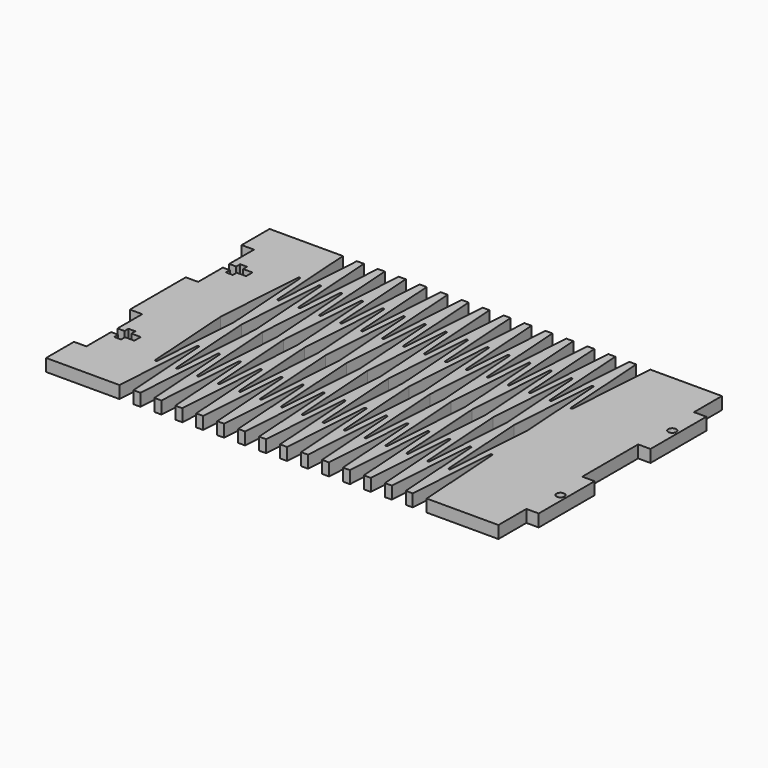
from build123d import *

# Parameters (mm, degrees)
F0_R     = 1.4478
F1_DEPTH = 4.4958
F3_DEPTH = 4.4968


with BuildPart() as f1:
    # F0 (on Top) → F1 (new body)
    with BuildSketch(Plane.XY):
        Polygon((80.01, 50.8), (-80.01, 50.8), (-84.5058, 50.8), (-84.5058, 38.1), (-80.01, 38.1), (-80.01, 26.8478), (-77.47, 26.8478), (-77.47, 28.6385), (-74.96175, 28.6385), (-74.96175, 26.8478), (-71.5518, 26.8478), (-71.5518, 23.9522), (-74.96175, 23.9522), (-74.96175, 22.1615), (-77.47, 22.1615), (-77.47, 23.9522), (-80.01, 23.9522), (-80.01, 12.7), (-84.5058, 12.7), (-84.5058, 0), (-84.5058, -12.7), (-80.01, -12.7), (-80.01, -23.9522), (-77.47, -23.9522), (-77.47, -22.1615), (-74.96175, -22.1615), (-74.96175, -23.9522), (-71.5518, -23.9522), (-71.5518, -26.8478), (-74.96175, -26.8478), (-74.96175, -28.6385), (-77.47, -28.6385), (-77.47, -26.8478), (-80.01, -26.8478), (-80.01, -38.1), (-84.5058, -38.1), (-84.5058, -50.8), (-80.01, -50.8), (80.01, -50.8), (80.01, -38.1), (84.5058, -38.1), (84.5058, -12.7), (80.01, -12.7), (80.01, 0), (80.01, 12.7), (84.5058, 12.7), (84.5058, 38.1), (80.01, 38.1), align=None)
        with Locations((82.2579, -25.4)):
            Circle(F0_R, mode=Mode.SUBTRACT)
        with Locations((82.2579, 25.4)):
            Circle(F0_R, mode=Mode.SUBTRACT)
    extrude(amount=F1_DEPTH)

    # F2 (on face) → F3 (cut, through all)
    with BuildSketch(Plane.XY.offset(4.4958)):
        with BuildLine():
            ThreePointArc((-58.725644, 32.397658), (-59.1058, 32.753314), (-59.485956, 32.397658))
            Line((-59.485956, 32.397658), (-61.6458, 0))
            Line((-61.6458, 0), (-59.485956, -32.397658))
            ThreePointArc((-59.485956, -32.397658), (-59.1058, -32.753314), (-58.725644, -32.397658))
            Line((-58.725644, -32.397658), (-56.5658, 0))
            Line((-56.5658, 0), (-58.725644, 32.397658))
        make_face()
        with BuildLine():
            Line((-52.7558, 50.8), (-57.8358, 50.8))
            Line((-57.8358, 50.8), (-55.675956, 18.402342))
            ThreePointArc((-55.675956, 18.402342), (-55.2958, 18.046686), (-54.915644, 18.402342))
            Line((-54.915644, 18.402342), (-52.7558, 50.8))
        make_face()
        with BuildLine():
            ThreePointArc((-54.915644, -18.402342), (-55.2958, -18.046686), (-55.675956, -18.402342))
            Line((-55.675956, -18.402342), (-57.8358, -50.8))
            Line((-57.8358, -50.8), (-52.7558, -50.8))
            Line((-52.7558, -50.8), (-54.915644, -18.402342))
        make_face()
        with BuildLine():
            Line((-54.0258, 0), (-51.865956, -32.397658))
            ThreePointArc((-51.865956, -32.397658), (-51.4858, -32.753314), (-51.105644, -32.397658))
            Line((-51.105644, -32.397658), (-48.9458, 0))
            Line((-48.9458, 0), (-51.105644, 32.397658))
            ThreePointArc((-51.105644, 32.397658), (-51.4858, 32.753314), (-51.865956, 32.397658))
            Line((-51.865956, 32.397658), (-54.0258, 0))
        make_face()
        with BuildLine():
            Line((-45.1358, 50.8), (-50.2158, 50.8))
            Line((-50.2158, 50.8), (-48.055956, 18.402342))
            ThreePointArc((-48.055956, 18.402342), (-47.6758, 18.046686), (-47.295644, 18.402342))
            Line((-47.295644, 18.402342), (-45.1358, 50.8))
        make_face()
        with BuildLine():
            Line((-45.1358, -50.8), (-47.295644, -18.402342))
            ThreePointArc((-47.295644, -18.402342), (-47.6758, -18.046686), (-48.055956, -18.402342))
            Line((-48.055956, -18.402342), (-50.2158, -50.8))
            Line((-50.2158, -50.8), (-45.1358, -50.8))
        make_face()
        with BuildLine():
            Line((-46.4058, 0), (-44.245956, -32.397658))
            ThreePointArc((-44.245956, -32.397658), (-43.8658, -32.753314), (-43.485644, -32.397658))
            Line((-43.485644, -32.397658), (-41.3258, 0))
            Line((-41.3258, 0), (-43.485644, 32.397658))
            ThreePointArc((-43.485644, 32.397658), (-43.8658, 32.753314), (-44.245956, 32.397658))
            Line((-44.245956, 32.397658), (-46.4058, 0))
        make_face()
        with BuildLine():
            Line((-37.5158, 50.8), (-42.5958, 50.8))
            Line((-42.5958, 50.8), (-40.435956, 18.402342))
            ThreePointArc((-40.435956, 18.402342), (-40.0558, 18.046686), (-39.675644, 18.402342))
            Line((-39.675644, 18.402342), (-37.5158, 50.8))
        make_face()
        with BuildLine():
            Line((-37.5158, -50.8), (-39.675644, -18.402342))
            ThreePointArc((-39.675644, -18.402342), (-40.0558, -18.046686), (-40.435956, -18.402342))
            Line((-40.435956, -18.402342), (-42.5958, -50.8))
            Line((-42.5958, -50.8), (-37.5158, -50.8))
        make_face()
        with BuildLine():
            Line((-38.7858, 0), (-36.625956, -32.397658))
            ThreePointArc((-36.625956, -32.397658), (-36.2458, -32.753314), (-35.865644, -32.397658))
            Line((-35.865644, -32.397658), (-33.7058, 0))
            Line((-33.7058, 0), (-35.865644, 32.397658))
            ThreePointArc((-35.865644, 32.397658), (-36.2458, 32.753314), (-36.625956, 32.397658))
            Line((-36.625956, 32.397658), (-38.7858, 0))
        make_face()
        with BuildLine():
            Line((-29.8958, 50.8), (-34.9758, 50.8))
            Line((-34.9758, 50.8), (-32.815956, 18.402342))
            ThreePointArc((-32.815956, 18.402342), (-32.4358, 18.046686), (-32.055644, 18.402342))
            Line((-32.055644, 18.402342), (-29.8958, 50.8))
        make_face()
        with BuildLine():
            Line((-29.8958, -50.8), (-32.055644, -18.402342))
            ThreePointArc((-32.055644, -18.402342), (-32.4358, -18.046686), (-32.815956, -18.402342))
            Line((-32.815956, -18.402342), (-34.9758, -50.8))
            Line((-34.9758, -50.8), (-29.8958, -50.8))
        make_face()
        with BuildLine():
            Line((-31.1658, 0), (-29.005956, -32.397658))
            ThreePointArc((-29.005956, -32.397658), (-28.6258, -32.753314), (-28.245644, -32.397658))
            Line((-28.245644, -32.397658), (-26.0858, 0))
            Line((-26.0858, 0), (-28.245644, 32.397658))
            ThreePointArc((-28.245644, 32.397658), (-28.6258, 32.753314), (-29.005956, 32.397658))
            Line((-29.005956, 32.397658), (-31.1658, 0))
        make_face()
        with BuildLine():
            Line((-22.2758, 50.8), (-27.3558, 50.8))
            Line((-27.3558, 50.8), (-25.195956, 18.402342))
            ThreePointArc((-25.195956, 18.402342), (-24.8158, 18.046686), (-24.435644, 18.402342))
            Line((-24.435644, 18.402342), (-22.2758, 50.8))
        make_face()
        with BuildLine():
            Line((-22.2758, -50.8), (-24.435644, -18.402342))
            ThreePointArc((-24.435644, -18.402342), (-24.8158, -18.046686), (-25.195956, -18.402342))
            Line((-25.195956, -18.402342), (-27.3558, -50.8))
            Line((-27.3558, -50.8), (-22.2758, -50.8))
        make_face()
        with BuildLine():
            Line((-23.5458, 0), (-21.385956, -32.397658))
            ThreePointArc((-21.385956, -32.397658), (-21.0058, -32.753314), (-20.625644, -32.397658))
            Line((-20.625644, -32.397658), (-18.4658, 0))
            Line((-18.4658, 0), (-20.625644, 32.397658))
            ThreePointArc((-20.625644, 32.397658), (-21.0058, 32.753314), (-21.385956, 32.397658))
            Line((-21.385956, 32.397658), (-23.5458, 0))
        make_face()
        with BuildLine():
            Line((-14.6558, 50.8), (-19.7358, 50.8))
            Line((-19.7358, 50.8), (-17.575956, 18.402342))
            ThreePointArc((-17.575956, 18.402342), (-17.1958, 18.046686), (-16.815644, 18.402342))
            Line((-16.815644, 18.402342), (-14.6558, 50.8))
        make_face()
        with BuildLine():
            Line((-14.6558, -50.8), (-16.815644, -18.402342))
            ThreePointArc((-16.815644, -18.402342), (-17.1958, -18.046686), (-17.575956, -18.402342))
            Line((-17.575956, -18.402342), (-19.7358, -50.8))
            Line((-19.7358, -50.8), (-14.6558, -50.8))
        make_face()
        with BuildLine():
            Line((-15.9258, 0), (-13.765956, -32.397658))
            ThreePointArc((-13.765956, -32.397658), (-13.3858, -32.753314), (-13.005644, -32.397658))
            Line((-13.005644, -32.397658), (-10.8458, 0))
            Line((-10.8458, 0), (-13.005644, 32.397658))
            ThreePointArc((-13.005644, 32.397658), (-13.3858, 32.753314), (-13.765956, 32.397658))
            Line((-13.765956, 32.397658), (-15.9258, 0))
        make_face()
        with BuildLine():
            Line((-7.0358, 50.8), (-12.1158, 50.8))
            Line((-12.1158, 50.8), (-9.955956, 18.402342))
            ThreePointArc((-9.955956, 18.402342), (-9.5758, 18.046686), (-9.195644, 18.402342))
            Line((-9.195644, 18.402342), (-7.0358, 50.8))
        make_face()
        with BuildLine():
            Line((-7.0358, -50.8), (-9.195644, -18.402342))
            ThreePointArc((-9.195644, -18.402342), (-9.5758, -18.046686), (-9.955956, -18.402342))
            Line((-9.955956, -18.402342), (-12.1158, -50.8))
            Line((-12.1158, -50.8), (-7.0358, -50.8))
        make_face()
        with BuildLine():
            Line((-8.3058, 0), (-6.145956, -32.397658))
            ThreePointArc((-6.145956, -32.397658), (-5.7658, -32.753314), (-5.385644, -32.397658))
            Line((-5.385644, -32.397658), (-3.2258, 0))
            Line((-3.2258, 0), (-5.385644, 32.397658))
            ThreePointArc((-5.385644, 32.397658), (-5.7658, 32.753314), (-6.145956, 32.397658))
            Line((-6.145956, 32.397658), (-8.3058, 0))
        make_face()
        with BuildLine():
            Line((0.5842, 50.8), (-4.4958, 50.8))
            Line((-4.4958, 50.8), (-2.335956, 18.402342))
            ThreePointArc((-2.335956, 18.402342), (-1.9558, 18.046686), (-1.575644, 18.402342))
            Line((-1.575644, 18.402342), (0.5842, 50.8))
        make_face()
        with BuildLine():
            Line((0.5842, -50.8), (-1.575644, -18.402342))
            ThreePointArc((-1.575644, -18.402342), (-1.9558, -18.046686), (-2.335956, -18.402342))
            Line((-2.335956, -18.402342), (-4.4958, -50.8))
            Line((-4.4958, -50.8), (0.5842, -50.8))
        make_face()
        with BuildLine():
            Line((-0.6858, 0), (1.474044, -32.397658))
            ThreePointArc((1.474044, -32.397658), (1.8542, -32.753314), (2.234356, -32.397658))
            Line((2.234356, -32.397658), (4.3942, 0))
            Line((4.3942, 0), (2.234356, 32.397658))
            ThreePointArc((2.234356, 32.397658), (1.8542, 32.753314), (1.474044, 32.397658))
            Line((1.474044, 32.397658), (-0.6858, 0))
        make_face()
        with BuildLine():
            Line((8.2042, 50.8), (3.1242, 50.8))
            Line((3.1242, 50.8), (5.284044, 18.402342))
            ThreePointArc((5.284044, 18.402342), (5.6642, 18.046686), (6.044356, 18.402342))
            Line((6.044356, 18.402342), (8.2042, 50.8))
        make_face()
        with BuildLine():
            Line((8.2042, -50.8), (6.044356, -18.402342))
            ThreePointArc((6.044356, -18.402342), (5.6642, -18.046686), (5.284044, -18.402342))
            Line((5.284044, -18.402342), (3.1242, -50.8))
            Line((3.1242, -50.8), (8.2042, -50.8))
        make_face()
        with BuildLine():
            Line((6.9342, 0), (9.094044, -32.397658))
            ThreePointArc((9.094044, -32.397658), (9.4742, -32.753314), (9.854356, -32.397658))
            Line((9.854356, -32.397658), (12.0142, 0))
            Line((12.0142, 0), (9.854356, 32.397658))
            ThreePointArc((9.854356, 32.397658), (9.4742, 32.753314), (9.094044, 32.397658))
            Line((9.094044, 32.397658), (6.9342, 0))
        make_face()
        with BuildLine():
            Line((15.8242, 50.8), (10.7442, 50.8))
            Line((10.7442, 50.8), (12.904044, 18.402342))
            ThreePointArc((12.904044, 18.402342), (13.2842, 18.046686), (13.664356, 18.402342))
            Line((13.664356, 18.402342), (15.8242, 50.8))
        make_face()
        with BuildLine():
            Line((15.8242, -50.8), (13.664356, -18.402342))
            ThreePointArc((13.664356, -18.402342), (13.2842, -18.046686), (12.904044, -18.402342))
            Line((12.904044, -18.402342), (10.7442, -50.8))
            Line((10.7442, -50.8), (15.8242, -50.8))
        make_face()
        with BuildLine():
            Line((14.5542, 0), (16.714044, -32.397658))
            ThreePointArc((16.714044, -32.397658), (17.0942, -32.753314), (17.474356, -32.397658))
            Line((17.474356, -32.397658), (19.6342, 0))
            Line((19.6342, 0), (17.474356, 32.397658))
            ThreePointArc((17.474356, 32.397658), (17.0942, 32.753314), (16.714044, 32.397658))
            Line((16.714044, 32.397658), (14.5542, 0))
        make_face()
        with BuildLine():
            Line((23.4442, 50.8), (18.3642, 50.8))
            Line((18.3642, 50.8), (20.524044, 18.402342))
            ThreePointArc((20.524044, 18.402342), (20.9042, 18.046686), (21.284356, 18.402342))
            Line((21.284356, 18.402342), (23.4442, 50.8))
        make_face()
        with BuildLine():
            Line((23.4442, -50.8), (21.284356, -18.402342))
            ThreePointArc((21.284356, -18.402342), (20.9042, -18.046686), (20.524044, -18.402342))
            Line((20.524044, -18.402342), (18.3642, -50.8))
            Line((18.3642, -50.8), (23.4442, -50.8))
        make_face()
        with BuildLine():
            Line((22.1742, 0), (24.334044, -32.397658))
            ThreePointArc((24.334044, -32.397658), (24.7142, -32.753314), (25.094356, -32.397658))
            Line((25.094356, -32.397658), (27.2542, 0))
            Line((27.2542, 0), (25.094356, 32.397658))
            ThreePointArc((25.094356, 32.397658), (24.7142, 32.753314), (24.334044, 32.397658))
            Line((24.334044, 32.397658), (22.1742, 0))
        make_face()
        with BuildLine():
            Line((31.0642, 50.8), (25.9842, 50.8))
            Line((25.9842, 50.8), (28.144044, 18.402342))
            ThreePointArc((28.144044, 18.402342), (28.5242, 18.046686), (28.904356, 18.402342))
            Line((28.904356, 18.402342), (31.0642, 50.8))
        make_face()
        with BuildLine():
            Line((31.0642, -50.8), (28.904356, -18.402342))
            ThreePointArc((28.904356, -18.402342), (28.5242, -18.046686), (28.144044, -18.402342))
            Line((28.144044, -18.402342), (25.9842, -50.8))
            Line((25.9842, -50.8), (31.0642, -50.8))
        make_face()
        with BuildLine():
            Line((29.7942, 0), (31.954044, -32.397658))
            ThreePointArc((31.954044, -32.397658), (32.3342, -32.753314), (32.714356, -32.397658))
            Line((32.714356, -32.397658), (34.8742, 0))
            Line((34.8742, 0), (32.714356, 32.397658))
            ThreePointArc((32.714356, 32.397658), (32.3342, 32.753314), (31.954044, 32.397658))
            Line((31.954044, 32.397658), (29.7942, 0))
        make_face()
        with BuildLine():
            Line((38.6842, 50.8), (33.6042, 50.8))
            Line((33.6042, 50.8), (35.764044, 18.402342))
            ThreePointArc((35.764044, 18.402342), (36.1442, 18.046686), (36.524356, 18.402342))
            Line((36.524356, 18.402342), (38.6842, 50.8))
        make_face()
        with BuildLine():
            Line((38.6842, -50.8), (36.524356, -18.402342))
            ThreePointArc((36.524356, -18.402342), (36.1442, -18.046686), (35.764044, -18.402342))
            Line((35.764044, -18.402342), (33.6042, -50.8))
            Line((33.6042, -50.8), (38.6842, -50.8))
        make_face()
        with BuildLine():
            Line((37.4142, 0), (39.574044, -32.397658))
            ThreePointArc((39.574044, -32.397658), (39.9542, -32.753314), (40.334356, -32.397658))
            Line((40.334356, -32.397658), (42.4942, 0))
            Line((42.4942, 0), (40.334356, 32.397658))
            ThreePointArc((40.334356, 32.397658), (39.9542, 32.753314), (39.574044, 32.397658))
            Line((39.574044, 32.397658), (37.4142, 0))
        make_face()
        with BuildLine():
            Line((46.3042, 50.8), (41.2242, 50.8))
            Line((41.2242, 50.8), (43.384044, 18.402342))
            ThreePointArc((43.384044, 18.402342), (43.7642, 18.046686), (44.144356, 18.402342))
            Line((44.144356, 18.402342), (46.3042, 50.8))
        make_face()
        with BuildLine():
            Line((46.3042, -50.8), (44.144356, -18.402342))
            ThreePointArc((44.144356, -18.402342), (43.7642, -18.046686), (43.384044, -18.402342))
            Line((43.384044, -18.402342), (41.2242, -50.8))
            Line((41.2242, -50.8), (46.3042, -50.8))
        make_face()
        with BuildLine():
            Line((45.0342, 0), (47.194044, -32.397658))
            ThreePointArc((47.194044, -32.397658), (47.5742, -32.753314), (47.954356, -32.397658))
            Line((47.954356, -32.397658), (50.1142, 0))
            Line((50.1142, 0), (47.954356, 32.397658))
            ThreePointArc((47.954356, 32.397658), (47.5742, 32.753314), (47.194044, 32.397658))
            Line((47.194044, 32.397658), (45.0342, 0))
        make_face()
        with BuildLine():
            Line((53.9242, 50.8), (48.8442, 50.8))
            Line((48.8442, 50.8), (51.004044, 18.402342))
            ThreePointArc((51.004044, 18.402342), (51.3842, 18.046686), (51.764356, 18.402342))
            Line((51.764356, 18.402342), (53.9242, 50.8))
        make_face()
        with BuildLine():
            Line((53.9242, -50.8), (51.764356, -18.402342))
            ThreePointArc((51.764356, -18.402342), (51.3842, -18.046686), (51.004044, -18.402342))
            Line((51.004044, -18.402342), (48.8442, -50.8))
            Line((48.8442, -50.8), (53.9242, -50.8))
        make_face()
    extrude(amount=-F3_DEPTH, mode=Mode.SUBTRACT)


solid = f1.part
